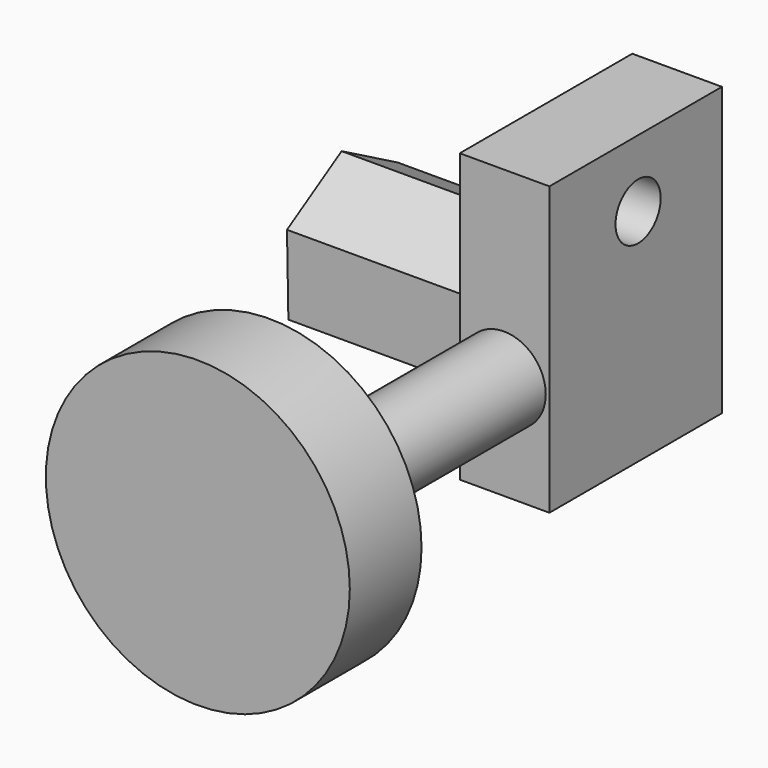
from build123d import *

# Parameters (mm, degrees)
F0_R     = 43.062987
F1_DEPTH = 25.4
F2_W     = 61.088197
F2_H     = 81.41325
F3_DEPTH = 25.4
F4_R     = 11.83762
F5_DEPTH = 76.2
F7_D     = 15.980156
F9_DEPTH = 57.6834


with BuildPart() as f1:
    # F0 (on Front) → F1 (new body)
    with BuildSketch(Plane.XZ):
        with Locations((-5.256481, 6.112957)):
            Circle(F0_R)
    extrude(amount=F1_DEPTH)


with BuildPart() as f3:
    # F2 (on Right) → F3 (new body)
    with BuildSketch(Plane.YZ):
        with Locations((91.338594, 26.734473)):
            Rectangle(F2_W, F2_H)
    extrude(amount=F3_DEPTH)

    # F7 (through all)
    with Locations(Plane.YZ.offset(25.4)):
        with Locations((92.202052, 48.45272)):
            Hole(F7_D / 2)

    # F8 (on face) → F9 (join)
    with BuildSketch(Plane(origin=(0, 0, 0), x_dir=(0, -1, 0), z_dir=(-1, 0, 0))):
        Polygon((-71.708072, 25.163366), (-91.052707, 36.901979), (-110.890962, 26.01834), (-111.384581, 3.396088), (-92.039946, -8.342525), (-72.201691, 2.541114), align=None)
    extrude(amount=F9_DEPTH)


with BuildPart() as f5:
    # F4 (on face) → F5 (new body)
    with BuildSketch(Plane.XZ.offset(-60.794495)):
        with Locations((12.522262, 15.245267)):
            Circle(F4_R)
    extrude(amount=F5_DEPTH)


solid = Compound([f1.part, f3.part, f5.part])
